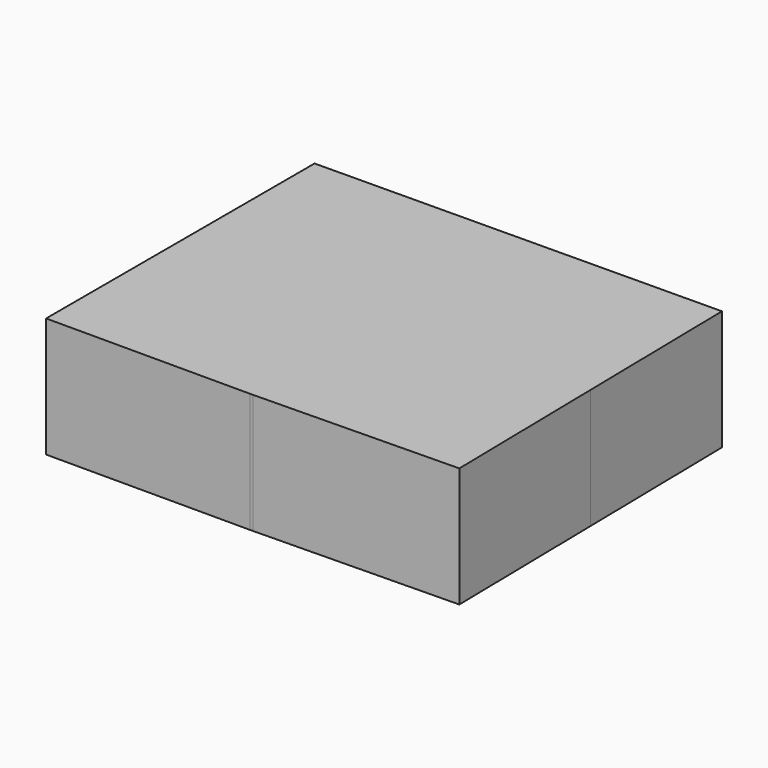
from build123d import *

# Parameters (mm, degrees)
F1_DEPTH = 25


with BuildPart() as f1:
    # F0 (on Top) → F1 (new body)
    with BuildSketch(Plane.XY):
        with BuildLine():
            Line((2.5, 35), (2.5, -35))
            Line((2.5, -35), (45, -35))
            ThreePointArc((45, -35), (20.251263, 24.748737), (80, 0))
            ThreePointArc((80, 0), (69.963766, -24.531824), (45.610834, -34.994669))
            Line((45.610834, -34.994669), (88.104361, -34.252942))
            Line((88.104361, -34.252942), (87.493527, 0.741727))
            Line((87.493527, 0.741727), (86.882693, 35.736397))
            Line((86.882693, 35.736397), (2.5, 35))
        make_face()
        with BuildLine():
            ThreePointArc((80, 0), (20.251263, 24.748737), (45, -35))
            ThreePointArc((45, -35), (45.305429, -34.998667), (45.610834, -34.994669))
            ThreePointArc((45.610834, -34.994669), (69.963766, -24.531824), (80, 0))
        make_face()
    extrude(amount=F1_DEPTH)


solid = f1.part
